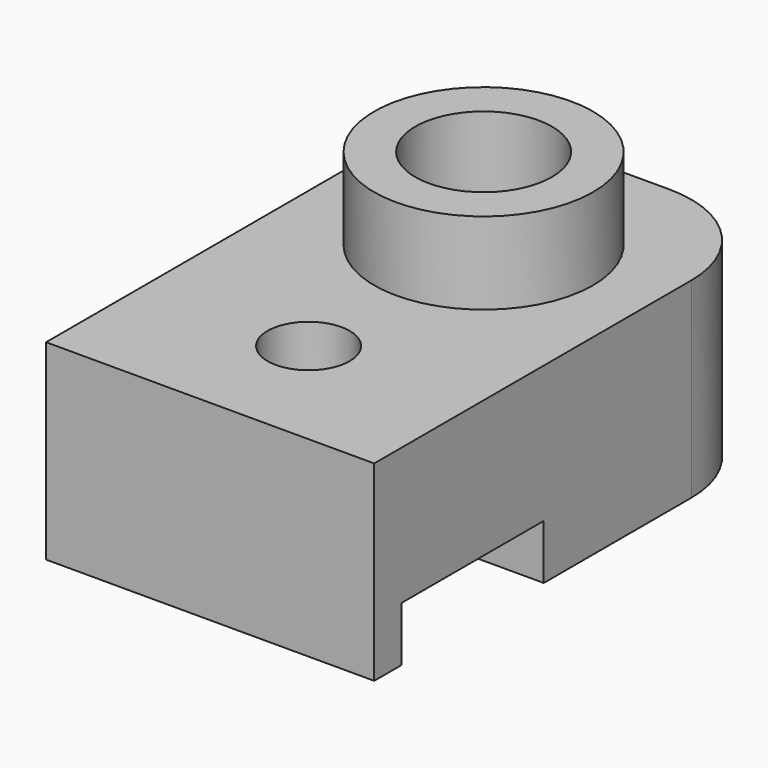
from build123d import *

# Parameters (mm, degrees)
SKETCH_W        = 12
SKETCH_H        = 18.5
SKETCH_R        = 2.5
PAD_DEPTH       = 7
SKETCH001_W     = 12
SKETCH001_H     = 6.5
POCKET_DEPTH    = 2
SKETCH002_R     = 1.5
POCKET001_DEPTH = 5.001
SKETCH003_R     = 4
PAD001_DEPTH    = 3
SKETCH004_R     = 2.5
POCKET002_DEPTH = 5
FILLET_R        = 4
CHAMFER_SIZE    = 1


with BuildPart() as part:
    # Sketch → Pad (new body)
    with BuildSketch(Plane.XY):
        with Locations((0, -3.25)):
            Rectangle(SKETCH_W, SKETCH_H)
        Circle(SKETCH_R, mode=Mode.SUBTRACT)
    extrude(amount=PAD_DEPTH)

    # Sketch001 (on Face6 of Pad) → Pocket (cut)
    with BuildSketch(Plane(origin=(0, 0, 0), x_dir=(1, 0, 0), z_dir=(0, 0, -1))):
        with Locations((0, 8)):
            Rectangle(SKETCH001_W, SKETCH001_H)
    extrude(amount=-POCKET_DEPTH, mode=Mode.SUBTRACT)

    # Sketch002 (on Face7 of Pocket) → Pocket001 (cut, through all)
    with BuildSketch(Plane(origin=(0, 0, 2), x_dir=(1, 0, 0), z_dir=(0, 0, -1))):
        with Locations((0, 8)):
            Circle(SKETCH002_R)
    extrude(amount=-POCKET001_DEPTH, mode=Mode.SUBTRACT)

    # Sketch003 (on Face7 of Pad) → Pad001 (join)
    with BuildSketch(Plane.XY.offset(7)):
        Circle(SKETCH003_R)
    extrude(amount=PAD001_DEPTH)

    # Sketch004 (on Face15 of Pad001) → Pocket002 (cut)
    with BuildSketch(Plane.XY.offset(10)):
        Circle(SKETCH004_R)
    extrude(amount=-POCKET002_DEPTH, mode=Mode.SUBTRACT)

    # Fillet
    fillet_edges = [part.edges().sort_by_distance(p)[0] for p in [
        (6, 6, 3.5),
        (-6, 6, 3.5),
    ]]
    fillet(fillet_edges, radius=FILLET_R)

    # Chamfer
    chamfer_edges = [part.edges().sort_by_distance(p)[0] for p in [
        (-2.5, 0, 0),
    ]]
    chamfer(chamfer_edges, length=CHAMFER_SIZE)


solid = part.part
